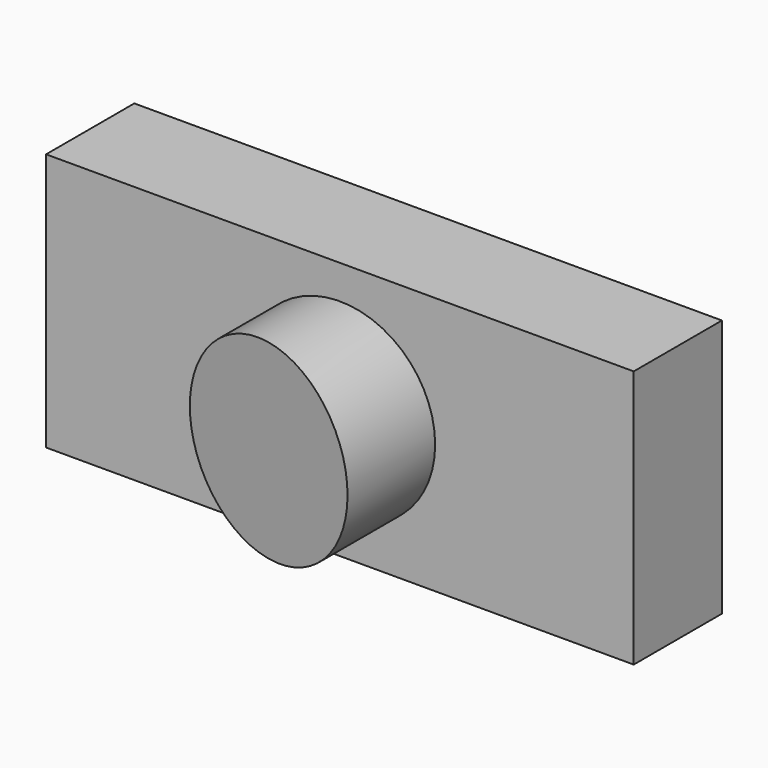
from build123d import *

# Parameters (mm, degrees)
F0_W          = 135.364354
F0_H          = 59.463624
F1_DEPTH      = 25.4
F2_R          = 21.942161
F3_DEPTH      = 25.4
F5_DEPTH      = 25.4
F5_DEPTH_BACK = 25.4


with BuildPart() as f1:
    # F0 (on Front) → F1 (new body)
    with BuildSketch(Plane.XZ):
        Rectangle(F0_W, F0_H)
    extrude(amount=F1_DEPTH)

    # F2 (on face) → F3 (join)
    with BuildSketch(Plane.XZ.offset(25.4)):
        Circle(F2_R)
    extrude(amount=F3_DEPTH)

    # F4 (on Top) → F5 (cut, two sides)
    with BuildSketch(Plane.XY) as f5_sk:
        Polygon((34.163382, -53.259425), (-24.172205, -40.689882), (-24.172205, -53.259425), align=None)
    extrude(amount=F5_DEPTH, mode=Mode.SUBTRACT)
    extrude(f5_sk.sketch, amount=-F5_DEPTH_BACK, mode=Mode.SUBTRACT)


solid = f1.part
